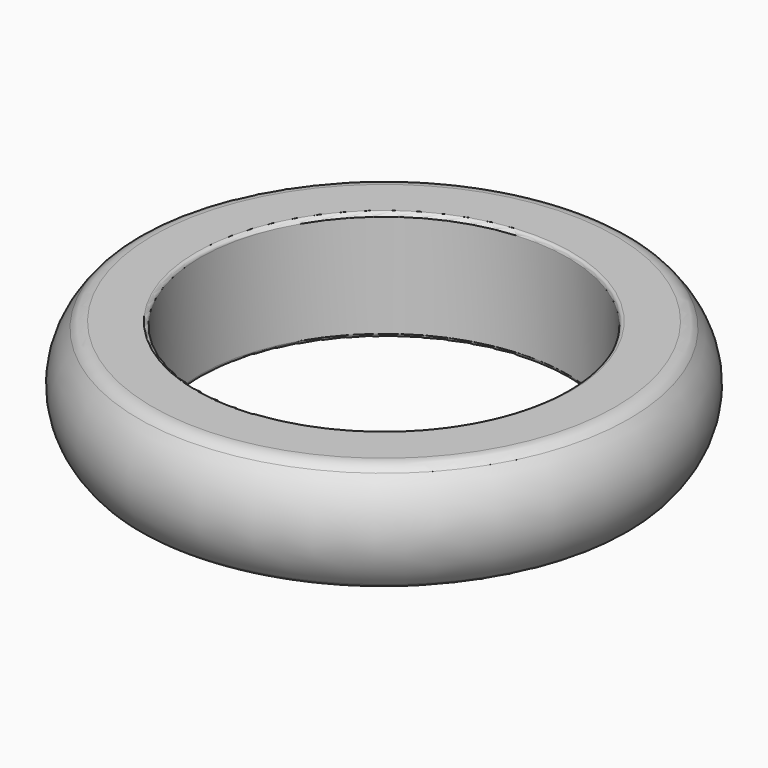
from build123d import *


with BuildPart() as f1:
    # F0 (on Front) → F1 (revolve)
    with BuildSketch(Plane.XZ):
        with BuildLine():
            ThreePointArc((-0.2, 0), (-0.058579, 0.058579), (0, 0.2))
            Line((0, 0.2), (0, 5.8))
            ThreePointArc((0, 5.8), (-0.058579, 5.941421), (-0.2, 6))
            Line((-0.2, 6), (-2.590317, 6))
            ThreePointArc((-2.590317, 6), (-2.998565, 5.912871), (-3.335673, 5.666667))
            ThreePointArc((-3.335673, 5.666667), (-4.354249, 3), (-3.335673, 0.333333))
            ThreePointArc((-3.335673, 0.333333), (-2.998565, 0.087129), (-2.590317, 0))
            Line((-2.590317, 0), (-0.2, 0))
        make_face()
    revolve(axis=Axis((10, 0, 3), (0, 0, 1)))


solid = f1.part
